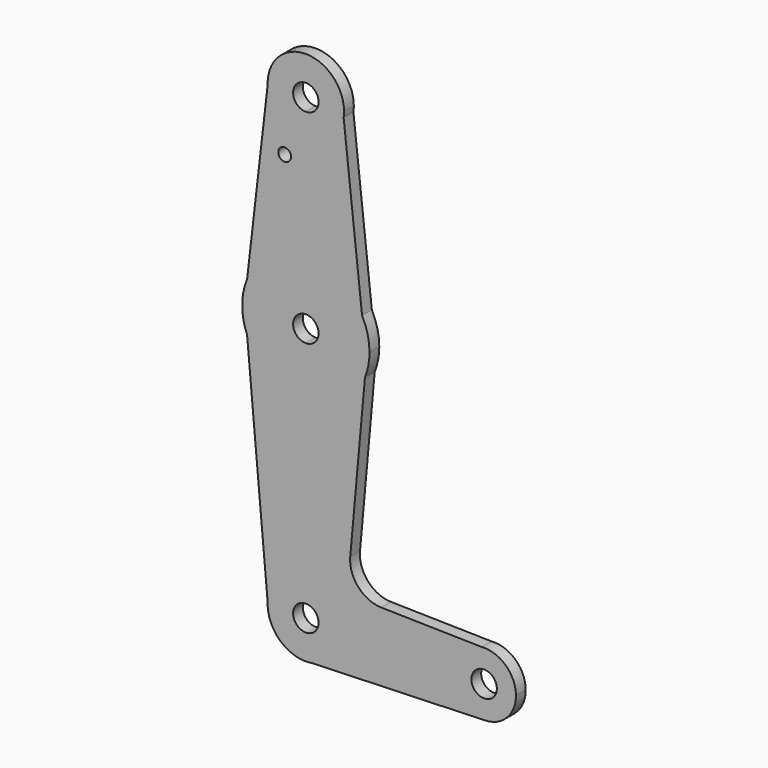
from build123d import *

# Parameters (mm, degrees)
F0_R     = 1.5875
F1_DEPTH = 3.048


with BuildPart() as f1:
    # F0 (on Front) → F1 (new body)
    with BuildSketch(Plane.XZ):
        with BuildLine():
            ThreePointArc((-9.5184115544, 68.627622032), (-6.6087726218, 62.1225525205), (0, 59.4568345116))
            ThreePointArc((0, 59.4568345116), (6.2270475297, 61.7742340744), (9.4240567974, 67.5988021625))
            ThreePointArc((9.4240567974, 67.5988021625), (9.4997306803, 68.2884789014), (9.525, 68.9818345116))
            ThreePointArc((9.525, 68.9818345116), (-0.1771368738, 78.5051872578), (-9.5184115544, 68.627622032))
        make_face()
        with BuildLine():
            ThreePointArc((3.175, 68.9818345116), (2.2450640303, 66.7367704813), (0, 65.8068345116))
            ThreePointArc((0, 65.8068345116), (-2.2450640303, 71.2268985419), (3.175, 68.9818345116))
        make_face(mode=Mode.SUBTRACT)
        with BuildLine():
            ThreePointArc((9.4240567974, 67.5988021625), (6.2270475297, 61.7742340744), (0, 59.4568345116))
            Line((0, 59.4568345116), (0, 34.0568345116))
            ThreePointArc((0, 34.0568345116), (8.1775625228, 31.7885643239), (14.0182530736, 25.6319489916))
            Line((14.0182530736, 25.6319489916), (9.4240567974, 67.5988021625))
        make_face()
        with BuildLine():
            Line((0, 34.0568345116), (0, 59.4568345116))
            ThreePointArc((0, 59.4568345116), (-6.6087726218, 62.1225525205), (-9.5184115544, 68.627622032))
            Line((-9.5184115544, 68.627622032), (-14.6387373754, 24.3237391881))
            ThreePointArc((-14.6387373754, 24.3237391881), (-8.7895645018, 31.4014858258), (0, 34.0568345116))
        make_face()
        with Locations((-5.2805095911, 54.7070345116)):
            Circle(F0_R, mode=Mode.SUBTRACT)
        with BuildLine():
            ThreePointArc((14.0182530736, 25.6319489916), (8.1775625228, 31.7885643239), (0, 34.0568345116))
            Line((0, 34.0568345116), (0, 21.3568345116))
            ThreePointArc((0, 21.3568345116), (2.2450640303, 20.4268985419), (3.175, 18.1818345116))
            ThreePointArc((3.175, 18.1818345116), (2.2450640303, 15.9367704813), (0, 15.0068345116))
            Line((0, 15.0068345116), (0, 2.3068345116))
            ThreePointArc((0, 2.3068345116), (8.8941601525, 5.0323272896), (14.7343399255, 12.2729554335))
            ThreePointArc((14.7343399255, 12.2729554335), (15.5872266827, 15.1728497424), (15.875, 18.1818345116))
            ThreePointArc((15.875, 18.1818345116), (15.4038208335, 22.0208355182), (14.0182530736, 25.6319489916))
        make_face()
        with BuildLine():
            Line((0, 21.3568345116), (0, 34.0568345116))
            ThreePointArc((0, 34.0568345116), (-8.7895645018, 31.4014858258), (-14.6387373754, 24.3237391881))
            ThreePointArc((-14.6387373754, 24.3237391881), (-15.875, 18.1818345116), (-14.6387373754, 12.0399298351))
            ThreePointArc((-14.6387373754, 12.0399298351), (-8.7895645018, 4.9621831974), (0, 2.3068345116))
            Line((0, 2.3068345116), (0, 15.0068345116))
            ThreePointArc((0, 15.0068345116), (-3.175, 18.1818345116), (0, 21.3568345116))
        make_face()
        with BuildLine():
            ThreePointArc((0, 2.3068345116), (-8.7895645018, 4.9621831974), (-14.6387373754, 12.0399298351))
            Line((-14.6387373754, 12.0399298351), (-9.519312416, -44.9890513347))
            ThreePointArc((-9.519312416, -44.9890513347), (-6.6178097844, -38.467602106), (0, -35.7931654884))
            Line((0, -35.7931654884), (0, 2.3068345116))
        make_face()
        with BuildLine():
            ThreePointArc((14.7343399255, 12.2729554335), (8.8941601525, 5.0323272896), (0, 2.3068345116))
            Line((0, 2.3068345116), (0, -35.7931654884))
            ThreePointArc((0, -35.7931654884), (6.7351920908, -38.5829733976), (9.525, -45.3181654884))
            Line((9.525, -45.3181654884), (36.5125, -45.3181654884))
            ThreePointArc((36.5125, -45.3181654884), (38.6392806633, -39.9108142847), (43.8799197267, -37.4011638633))
            Line((43.8799197267, -37.4011638633), (18.826330504, -36.8878380215))
            ThreePointArc((18.826330504, -36.8878380215), (13.0651729375, -34.2413544662), (11.0713145299, -28.2231038595))
            Line((11.0713145299, -28.2231038595), (14.7343399255, 12.2729554335))
        make_face()
        with BuildLine():
            ThreePointArc((0, -35.7931654884), (-6.6178097844, -38.467602106), (-9.519312416, -44.9890513347))
            ThreePointArc((-9.519312416, -44.9890513347), (-6.2577848578, -52.4990953497), (1.6276998605, -54.7030585706))
            ThreePointArc((1.6276998605, -54.7030585706), (7.28798553, -51.4509374485), (9.525, -45.3181654884))
            Line((9.525, -45.3181654884), (3.175, -45.3181654884))
            ThreePointArc((3.175, -45.3181654884), (-2.2450640303, -47.5632295187), (0, -42.1431654884))
            Line((0, -42.1431654884), (0, -35.7931654884))
        make_face()
        with BuildLine():
            ThreePointArc((9.525, -45.3181654884), (7.28798553, -51.4509374485), (1.6276998605, -54.7030585706))
            Line((1.6276998605, -54.7030585706), (44.7173007138, -53.251163445))
            ThreePointArc((44.7173007138, -53.251163445), (38.9326543142, -51.0245481283), (36.5125, -45.3181654884))
            Line((36.5125, -45.3181654884), (9.525, -45.3181654884))
        make_face()
        with BuildLine():
            ThreePointArc((36.5125, -45.3181654884), (38.9326543142, -51.0245481283), (44.7173007138, -53.251163445))
            ThreePointArc((44.7173007138, -53.251163445), (50.1563826399, -50.8355111743), (52.3875, -45.3181654884))
            ThreePointArc((52.3875, -45.3181654884), (49.8573512037, -39.5074461517), (43.8799197267, -37.4011638633))
            ThreePointArc((43.8799197267, -37.4011638633), (38.6392806633, -39.9108142847), (36.5125, -45.3181654884))
        make_face()
        with BuildLine():
            ThreePointArc((47.625, -45.3181654884), (44.45, -48.4931654884), (41.275, -45.3181654884))
            ThreePointArc((41.275, -45.3181654884), (44.45, -42.1431654884), (47.625, -45.3181654884))
        make_face(mode=Mode.SUBTRACT)
        with BuildLine():
            ThreePointArc((9.525, -45.3181654884), (6.7351920908, -38.5829733976), (0, -35.7931654884))
            Line((0, -35.7931654884), (0, -42.1431654884))
            ThreePointArc((0, -42.1431654884), (2.2450640303, -43.0731014581), (3.175, -45.3181654884))
            Line((3.175, -45.3181654884), (9.525, -45.3181654884))
        make_face()
    extrude(amount=F1_DEPTH)


solid = f1.part
